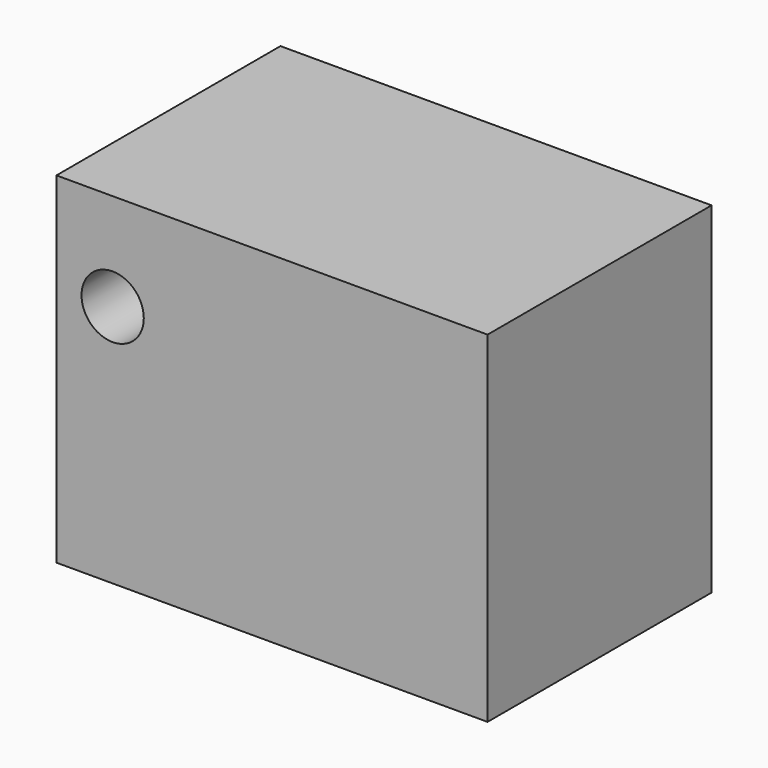
from build123d import *

# Parameters (mm, degrees)
F0_W     = 160.581484
F0_H     = 104.299434
F1_DEPTH = 127
F2_R     = 11.601536
F3_DEPTH = 163.322


with BuildPart() as f1:
    # F0 (on Top) → F1 (new body)
    with BuildSketch(Plane.XY):
        Rectangle(F0_W, F0_H)
    extrude(amount=F1_DEPTH)

    # F2 (on face) → F3 (cut)
    with BuildSketch(Plane.XZ.offset(52.149717)):
        with Locations((-59.354722, 90.732813)):
            Circle(F2_R)
    extrude(amount=-F3_DEPTH, mode=Mode.SUBTRACT)


solid = f1.part
